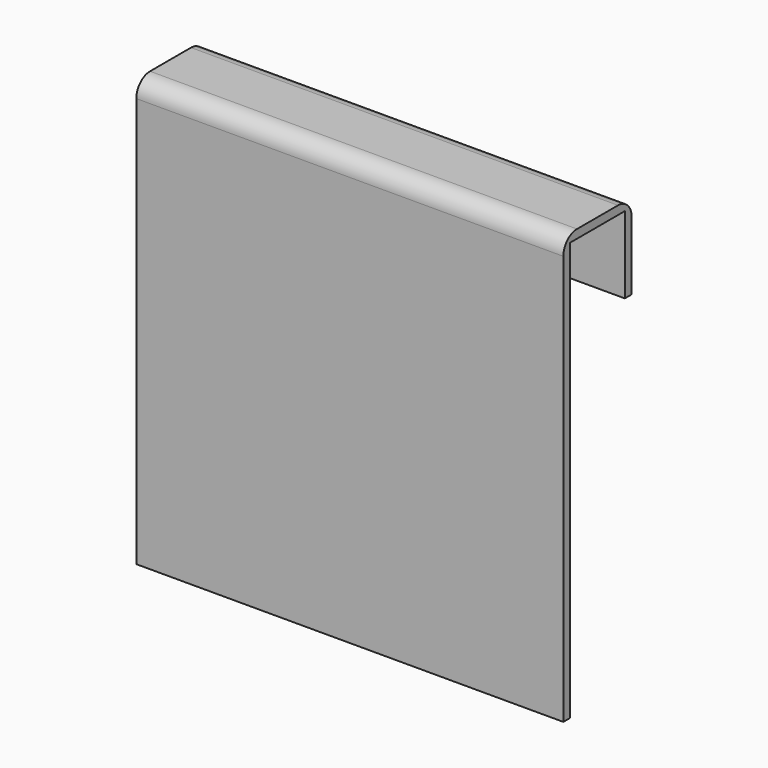
from build123d import *

# Parameters (mm, degrees)
F1_DEPTH = 50


with BuildPart() as f1:
    # F0 (on Right) → F1 (new body, symmetric)
    with BuildSketch(Plane.YZ):
        with BuildLine():
            Line((6, 10), (-6, 10))
            ThreePointArc((-6, 10), (-8.828427, 8.828427), (-10, 6))
            Line((-10, 6), (-10, -10))
            Line((-10, -10), (-10, -90))
            Line((-10, -90), (-8, -90))
            Line((-8, -90), (-8, -10))
            Line((-8, -10), (-8, 8))
            Line((-8, 8), (8, 8))
            Line((8, 8), (8, -10))
            Line((8, -10), (10, -10))
            Line((10, -10), (10, 6))
            ThreePointArc((10, 6), (8.828427, 8.828427), (6, 10))
        make_face()
    extrude(amount=F1_DEPTH, both=True)


solid = f1.part
